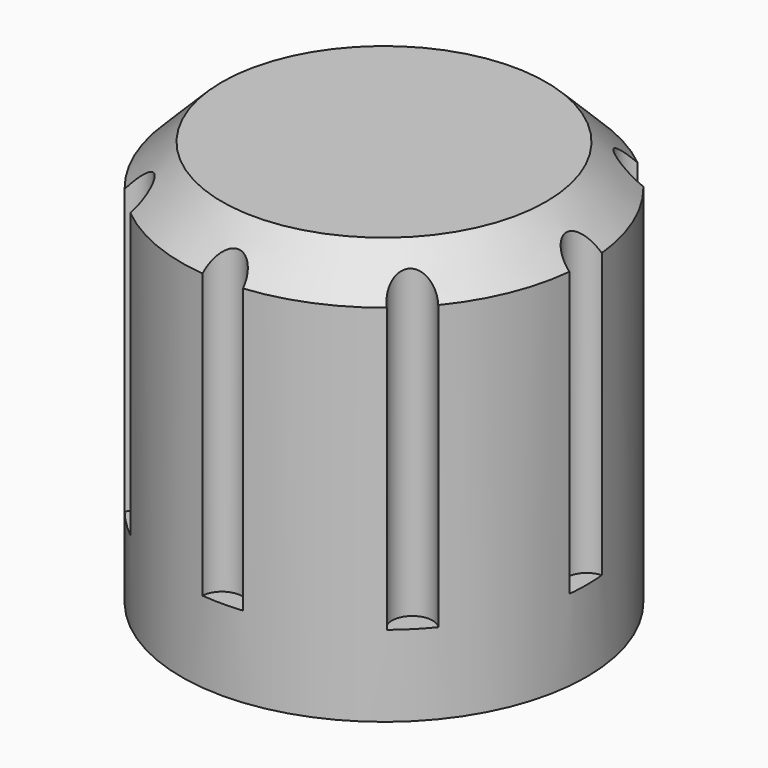
from build123d import *

# Parameters (mm, degrees)
CYLINDER002_R     = 0.5
CYLINDER002_DEPTH = 10
CYLINDER003_R     = 0.5
CYLINDER003_DEPTH = 10
CYLINDER004_R     = 0.5
CYLINDER004_DEPTH = 10
CYLINDER005_R     = 0.5
CYLINDER005_DEPTH = 10
CYLINDER006_R     = 0.5
CYLINDER006_DEPTH = 10
CYLINDER007_R     = 0.5
CYLINDER007_DEPTH = 10
CYLINDER008_R     = 0.5
CYLINDER008_DEPTH = 10
CYLINDER001_R     = 0.5
CYLINDER001_DEPTH = 10
CYLINDER_R        = 5
CYLINDER_DEPTH    = 10
CHAMFER_SIZE      = 1


with BuildPart() as cylinder002:
    # Cylinder002 → Cylinder002 (new body)
    with BuildSketch(Plane(origin=(-5, 0, 2), x_dir=(1, 0, 0), z_dir=(0, 0, 1))):
        Circle(CYLINDER002_R)
    extrude(amount=CYLINDER002_DEPTH)


with BuildPart() as cylinder003:
    # Cylinder003 → Cylinder003 (new body)
    with BuildSketch(Plane(origin=(0, 5, 2), x_dir=(1, 0, 0), z_dir=(0, 0, 1))):
        Circle(CYLINDER003_R)
    extrude(amount=CYLINDER003_DEPTH)


with BuildPart() as cylinder004:
    # Cylinder004 → Cylinder004 (new body)
    with BuildSketch(Plane(origin=(0, -5, 2), x_dir=(1, 0, 0), z_dir=(0, 0, 1))):
        Circle(CYLINDER004_R)
    extrude(amount=CYLINDER004_DEPTH)


with BuildPart() as cylinder005:
    # Cylinder005 → Cylinder005 (new body)
    with BuildSketch(Plane(origin=(3.5, -3.5, 2), x_dir=(1, 0, 0), z_dir=(0, 0, 1))):
        Circle(CYLINDER005_R)
    extrude(amount=CYLINDER005_DEPTH)


with BuildPart() as cylinder006:
    # Cylinder006 → Cylinder006 (new body)
    with BuildSketch(Plane(origin=(-3.5, 3.5, 2), x_dir=(1, 0, 0), z_dir=(0, 0, 1))):
        Circle(CYLINDER006_R)
    extrude(amount=CYLINDER006_DEPTH)


with BuildPart() as cylinder007:
    # Cylinder007 → Cylinder007 (new body)
    with BuildSketch(Plane(origin=(3.5, 3.5, 2), x_dir=(1, 0, 0), z_dir=(0, 0, 1))):
        Circle(CYLINDER007_R)
    extrude(amount=CYLINDER007_DEPTH)


with BuildPart() as cylinder008:
    # Cylinder008 → Cylinder008 (new body)
    with BuildSketch(Plane(origin=(-3.5, -3.5, 2), x_dir=(1, 0, 0), z_dir=(0, 0, 1))):
        Circle(CYLINDER008_R)
    extrude(amount=CYLINDER008_DEPTH)


with BuildPart() as cylinder001:
    # Cylinder001 → Cylinder001 (new body)
    with BuildSketch(Plane(origin=(5, 0, 2), x_dir=(1, 0, 0), z_dir=(0, 0, 1))):
        Circle(CYLINDER001_R)
    extrude(amount=CYLINDER001_DEPTH)


with BuildPart() as cut007:
    # Cylinder → Cylinder (new body)
    with BuildSketch(Plane.XY):
        Circle(CYLINDER_R)
    extrude(amount=CYLINDER_DEPTH)

    # Chamfer
    chamfer_edges = [cut007.edges().sort_by_distance(p)[0] for p in [
        (-5, 0, 10),
    ]]
    chamfer(chamfer_edges, length=CHAMFER_SIZE)

    # Cut: cut Cylinder001
    add(cylinder001.part, mode=Mode.SUBTRACT)

    # Cut001: cut Cylinder008
    add(cylinder008.part, mode=Mode.SUBTRACT)

    # Cut002: cut Cylinder007
    add(cylinder007.part, mode=Mode.SUBTRACT)

    # Cut003: cut Cylinder006
    add(cylinder006.part, mode=Mode.SUBTRACT)

    # Cut004: cut Cylinder005
    add(cylinder005.part, mode=Mode.SUBTRACT)

    # Cut005: cut Cylinder004
    add(cylinder004.part, mode=Mode.SUBTRACT)

    # Cut006: cut Cylinder003
    add(cylinder003.part, mode=Mode.SUBTRACT)

    # Cut007: cut Cylinder002
    add(cylinder002.part, mode=Mode.SUBTRACT)


solid = cut007.part
